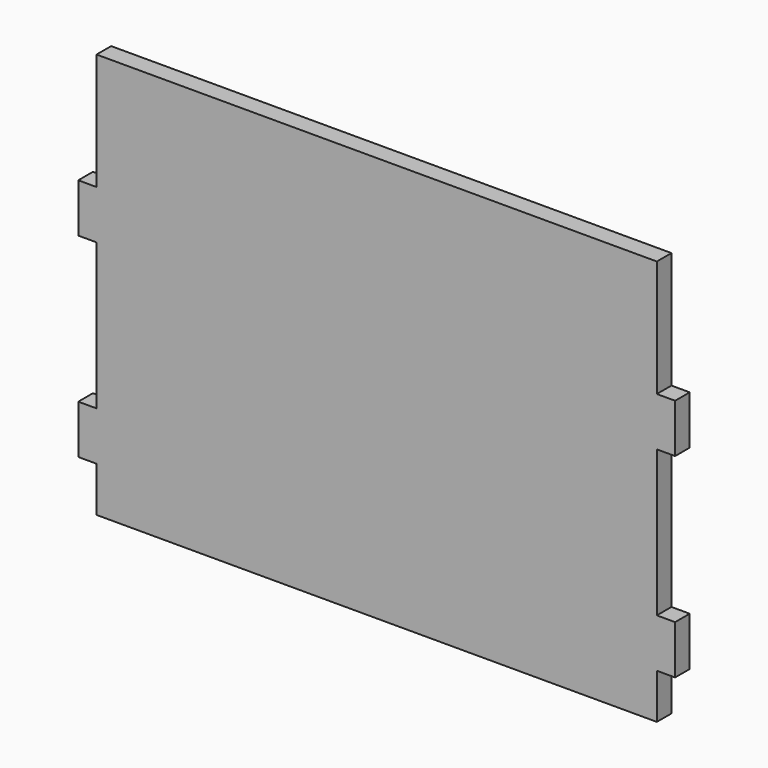
from build123d import *

# Parameters (mm, degrees)
F0_W     = 584.2
F0_H     = 74.632816
F1_DEPTH = 19.05


with BuildPart() as f1:
    # F0 (on Front) → F1 (new body)
    with BuildSketch(Plane.XZ):
        Polygon((0, 46.99), (0, 0), (584.2, 0), (584.2, 46.99), (603.25, 46.99), (603.25, 97.79), (584.2, 97.79), (584.2, 250.19), (603.25, 250.19), (603.25, 300.99), (584.2, 300.99), (584.2, 347.98), (0, 347.98), (0, 300.99), (-19.05, 300.99), (-19.05, 250.19), (0, 250.19), (0, 97.79), (-19.05, 97.79), (-19.05, 46.99), align=None)
        with Locations((292.1, 385.296408)):
            Rectangle(F0_W, F0_H)
    extrude(amount=F1_DEPTH)


solid = f1.part
